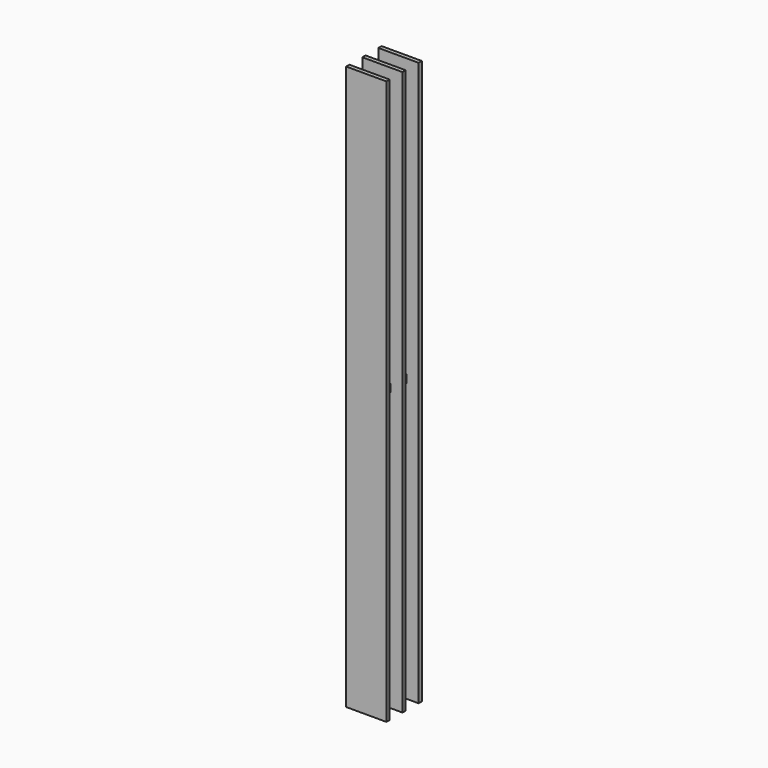
from build123d import *

# Parameters (mm, degrees)
F0_W     = 40
F0_H     = 40
F1_DEPTH = 10
F2_W     = 100
F2_H     = 10
F3_DEPTH = 690
F4_W     = 100
F4_H     = 10
F5_DEPTH = 690


with BuildPart() as f1:
    # F0 (on Top) → F1 (new body, symmetric)
    with BuildSketch(Plane.XY):
        Polygon((20, -5), (50, -5), (50, 5), (20, 5), (-20, 5), (-50, 5), (-50, -5), (-20, -5), align=None)
        with Locations((0, 25)):
            Rectangle(F0_W, F0_H)
        with Locations((0, -25)):
            Rectangle(F0_W, F0_H)
        Polygon((-20, 45), (20, 45), (50, 45), (50, 55), (-50, 55), (-50, 45), align=None)
        Polygon((50, -45), (20, -45), (-20, -45), (-50, -45), (-50, -55), (50, -55), align=None)
    extrude(amount=F1_DEPTH, both=True)

    # F2 (on face) → F3 (join)
    with BuildSketch(Plane(origin=(0, 0, -10), x_dir=(1, 0, 0), z_dir=(0, 0, -1))):
        Rectangle(F2_W, F2_H)
        with Locations((0, 50)):
            Rectangle(F2_W, F2_H)
        with Locations((0, -50)):
            Rectangle(F2_W, F2_H)
    extrude(amount=F3_DEPTH)

    # F4 (on face) → F5 (join)
    with BuildSketch(Plane.XY.offset(10)):
        with Locations((0, 50)):
            Rectangle(F4_W, F4_H)
        Rectangle(F4_W, F4_H)
        with Locations((0, -50)):
            Rectangle(F4_W, F4_H)
    extrude(amount=F5_DEPTH)


solid = f1.part
